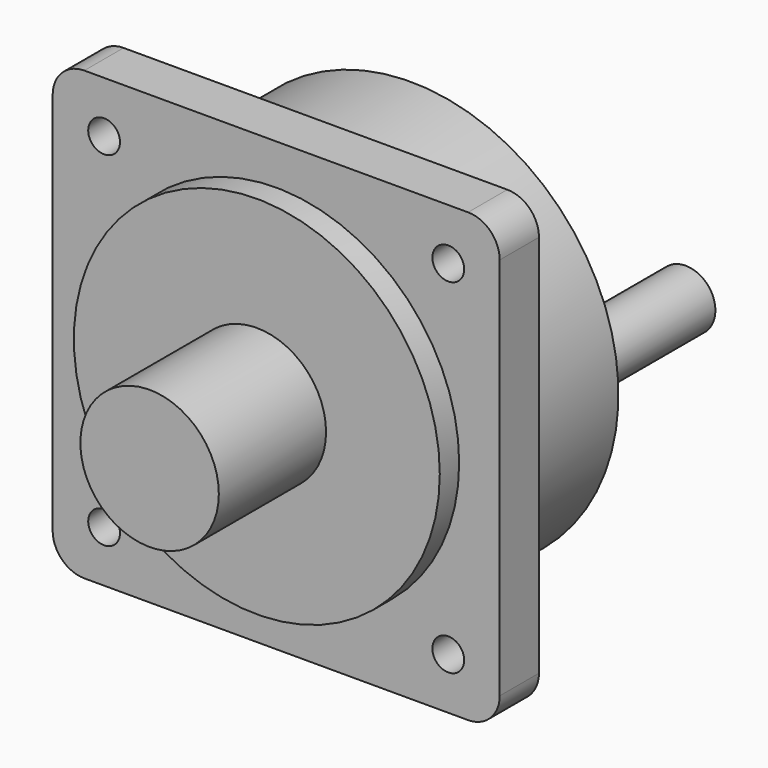
from build123d import *

# Parameters (mm, degrees)
F0_W      = 71.755
F0_H      = 71.755
F1_DEPTH  = 7.874
F2_R      = 11.1125
F3_DEPTH  = 25.4
F5_D      = 5.1054
F7_R      = 33.3375
F8_DEPTH  = 19.1262
F9_R      = 4.7625
F10_DEPTH = 25.4
F6_R      = 29.36875
F11_DEPTH = 3.8862
F13_R     = 5.08


with BuildPart() as f1:
    # F0 (on Front) → F1 (new body)
    with BuildSketch(Plane.XZ):
        Rectangle(F0_W, F0_H)
    extrude(amount=-F1_DEPTH)

    # F2 (on face) → F3 (join)
    with BuildSketch(Plane.XZ):
        Circle(F2_R)
    extrude(amount=F3_DEPTH)

    # F5 (through all)
    with Locations(Plane.XZ):
        with Locations((27.6225, 27.6225), (27.6225, -27.6225), (-27.6225, -27.6225), (-27.6225, 27.6225)):
            Hole(F5_D / 2)

    # F7 (on face) → F8 (join)
    with BuildSketch(Plane(origin=(0, 7.874, 0), x_dir=(-1, 0, 0), z_dir=(0, 1, 0))):
        Circle(F7_R)
    extrude(amount=F8_DEPTH)

    # F9 (on face) → F10 (join)
    with BuildSketch(Plane(origin=(0, 27.0002, 0), x_dir=(-1, 0, 0), z_dir=(0, 1, 0))):
        with Locations((-23.8125, 0)):
            Circle(F9_R)
    extrude(amount=F10_DEPTH)

    # F6 (on face) → F11 (join)
    with BuildSketch(Plane.XZ):
        Circle(F6_R)
    extrude(amount=F11_DEPTH)

    # F12: F1 across plane


with BuildPart() as f1_1:
    add(f1.part)
    add(f1.part.mirror(Plane.YZ))

    # F13
    f13_edges = [f1_1.edges().sort_by_distance(p)[0] for p in [
        (35.8775, 3.937, 35.8775),
        (35.8775, 3.937, -35.8775),
        (-35.8775, 3.937, -35.8775),
        (-35.8775, 3.937, 35.8775),
    ]]
    fillet(f13_edges, radius=F13_R)


solid = f1_1.part
